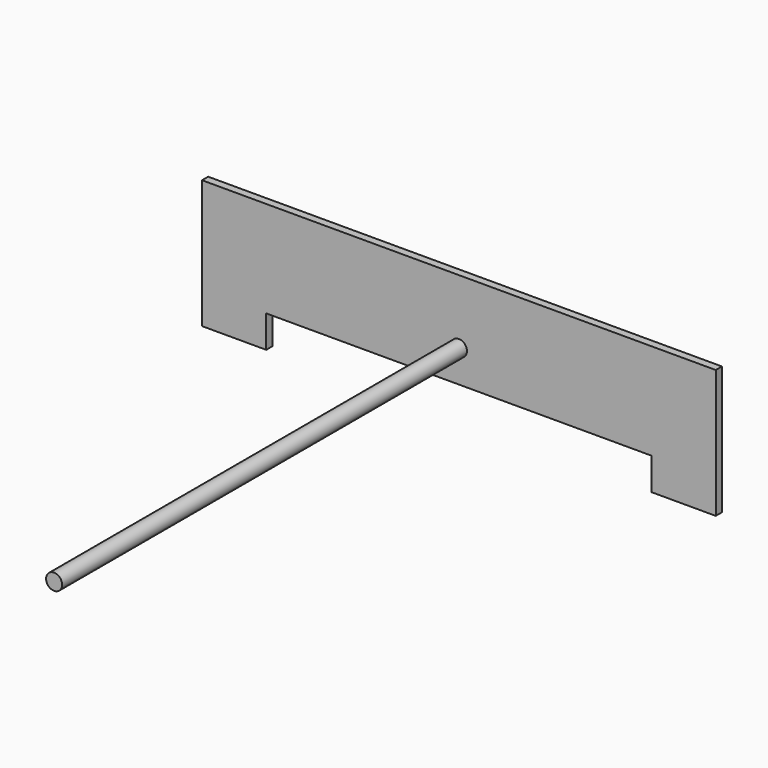
from build123d import *

# Parameters (mm, degrees)
F0_R     = 12.5
F2_DEPTH = 12
F1_R     = 12.5
F3_DEPTH = 800


with BuildPart() as f2:
    # F0 (on Front) → F2 (new body)
    with BuildSketch(Plane.XZ):
        Polygon((348.598435, 21.680824), (-451.401565, 21.680824), (-451.401565, -178.319176), (-351.401565, -178.319176), (-351.401565, -128.319176), (248.598435, -128.319176), (248.598435, -178.319176), (348.598435, -178.319176), align=None)
        with Locations((-51.401565, -78.319176)):
            Circle(F0_R, mode=Mode.SUBTRACT)
    extrude(amount=F2_DEPTH)


with BuildPart() as f3:
    # F1 (on Front) → F3 (new body)
    with BuildSketch(Plane.XZ):
        with Locations((-51.335566, -78.318708)):
            Circle(F1_R)
    extrude(amount=F3_DEPTH)


solid = Compound([f2.part, f3.part])
